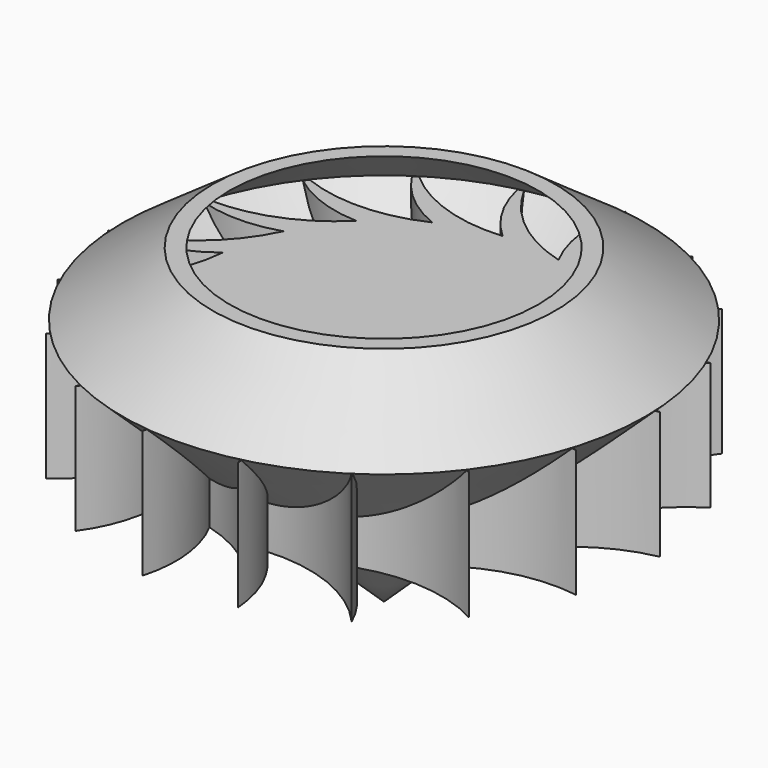
from build123d import *

# Parameters (mm, degrees)
F2_T     = -2.54
F4_DEPTH = 16.577775


with BuildPart() as f1:
    # F0 (on Front) → F1 (revolve)
    with BuildSketch(Plane.XZ):
        Polygon((-44.586856, 33.472456), (-68.108037, 16.930085), (0, 16.930085), (0, 33.472456), align=None)
        Polygon((-68.108037, 16.930085), (0, -47.688551), (0, 16.930085), align=None)
    revolve(axis=Axis((0, 0, -8.64616), (0, 0, -1)))

    # F2
    f2_openings = [f1.faces().sort_by_distance(p)[0] for p in [
        (0, 0, 33.472456),
    ]]
    offset(amount=F2_T, openings=f2_openings)

    # F3 (on Top) → F4 (join, symmetric)
    with BuildSketch(Plane.XY):
        with BuildLine():
            ThreePointArc((-4.618066, 44.331111), (-22.746649, 47.051155), (-37.706584, 57.645705))
            ThreePointArc((-37.706584, 57.645705), (-30.313455, 47.090599), (-19.501696, 40.078146))
            ThreePointArc((-19.501696, 40.078146), (-37.467301, 36.433811), (-55.148591, 41.272832))
            ThreePointArc((-55.148591, 41.272832), (-44.591263, 33.882876), (-32.033133, 30.991165))
            ThreePointArc((-32.033133, 30.991165), (-47.668843, 21.422012), (-65.938864, 19.921847))
            ThreePointArc((-65.938864, 19.921847), (-53.490707, 16.588378), (-40.700901, 18.166193))
            ThreePointArc((-40.700901, 18.166193), (-52.12082, 3.826402), (-68.775936, -3.832007))
            ThreePointArc((-68.775936, -3.832007), (-55.938382, -2.706923), (-44.459541, 3.150109))
            ThreePointArc((-44.459541, 3.150109), (-50.286256, -14.230729), (-63.317616, -27.123664))
            ThreePointArc((-63.317616, -27.123664), (-51.639063, -21.675729), (-42.855703, -12.245924))
            ThreePointArc((-42.855703, -12.245924), (-42.386428, -30.571423), (-50.222257, -47.143808))
            ThreePointArc((-50.222257, -47.143808), (-41.11131, -38.030122), (-36.082835, -26.164918))
            ThreePointArc((-36.082835, -26.164918), (-29.374171, -43.224753), (-31.069353, -61.477712))
            ThreePointArc((-31.069353, -61.477712), (-25.624927, -49.797521), (-24.957845, -36.928037))
            ThreePointArc((-24.957845, -36.928037), (-12.818955, -50.66454), (-8.169026, -68.396497))
            ThreePointArc((-8.169026, -68.396497), (-7.0478, -55.558604), (-10.82257, -43.23709))
            ThreePointArc((-10.82257, -43.23709), (5.282415, -51.993435), (15.716606, -67.065654))
            ThreePointArc((15.716606, -67.065654), (12.379397, -54.6185), (4.618066, -44.331111))
            ThreePointArc((4.618066, -44.331111), (22.746649, -47.051155), (37.706584, -57.645705))
            ThreePointArc((37.706584, -57.645705), (30.313455, -47.090599), (19.501696, -40.078146))
            ThreePointArc((19.501696, -40.078146), (37.467301, -36.433811), (55.148591, -41.272832))
            ThreePointArc((55.148591, -41.272832), (44.591263, -33.882876), (32.033133, -30.991165))
            ThreePointArc((32.033133, -30.991165), (47.668843, -21.422012), (65.938864, -19.921847))
            ThreePointArc((65.938864, -19.921847), (53.490707, -16.588378), (40.700901, -18.166193))
            ThreePointArc((40.700901, -18.166193), (52.12082, -3.826402), (68.775936, 3.832007))
            ThreePointArc((68.775936, 3.832007), (55.938382, 2.706923), (44.459541, -3.150109))
            ThreePointArc((44.459541, -3.150109), (50.286256, 14.230729), (63.317616, 27.123664))
            ThreePointArc((63.317616, 27.123664), (51.639063, 21.675729), (42.855703, 12.245924))
            ThreePointArc((42.855703, 12.245924), (42.386428, 30.571423), (50.222257, 47.143808))
            ThreePointArc((50.222257, 47.143808), (41.11131, 38.030122), (36.082835, 26.164918))
            ThreePointArc((36.082835, 26.164918), (29.374171, 43.224753), (31.069353, 61.477712))
            ThreePointArc((31.069353, 61.477712), (25.624927, 49.797521), (24.957845, 36.928037))
            ThreePointArc((24.957845, 36.928037), (12.818955, 50.66454), (8.169026, 68.396497))
            ThreePointArc((8.169026, 68.396497), (7.0478, 55.558604), (10.82257, 43.23709))
            ThreePointArc((10.82257, 43.23709), (-5.282415, 51.993435), (-15.716606, 67.065654))
            ThreePointArc((-15.716606, 67.065654), (-12.379397, 54.6185), (-4.618066, 44.331111))
        make_face()
    extrude(amount=F4_DEPTH, both=True)


solid = f1.part
